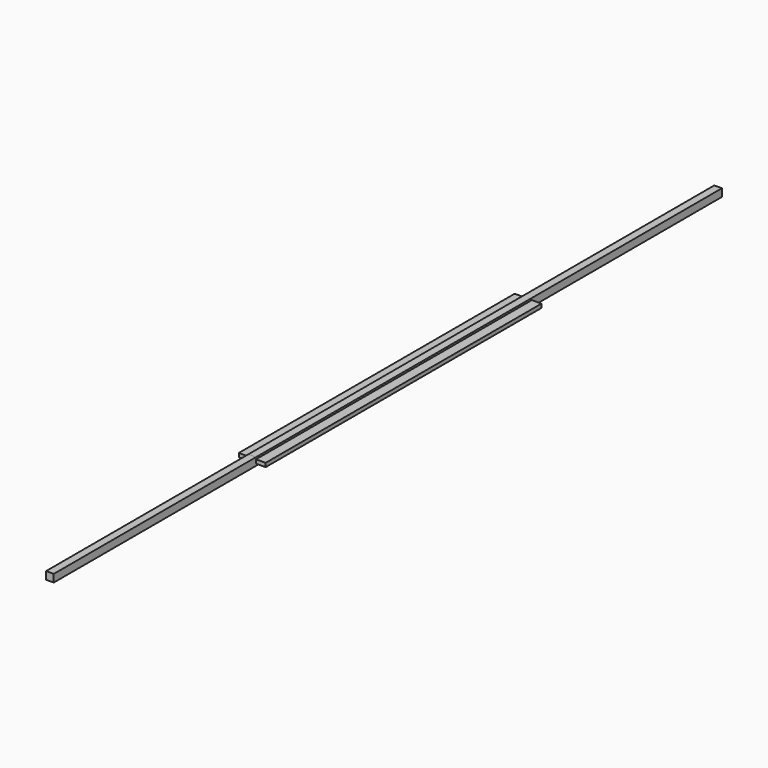
from build123d import *

# Parameters (mm, degrees)
F0_W     = 140
F0_H     = 20
F1_DEPTH = 1800
F2_W     = 40
F2_H     = 40
F3_DEPTH = 380
F4_DEPTH = 400
F6_DEPTH = 84
F7_DEPTH = 300
F8_DEPTH = 1320
F9_DEPTH = 3040


with BuildPart() as f1:
    # F0 (on Front) → F1 (new body)
    with BuildSketch(Plane.XZ):
        Rectangle(F0_W, F0_H)
    extrude(amount=-F1_DEPTH)


with BuildPart() as f3:
    # F2 (on Front) → F3 (new body)
    with BuildSketch(Plane.XZ):
        Rectangle(F2_W, F2_H)
    extrude(amount=-F3_DEPTH)


with BuildPart() as f4:
    # F2 (on Front) → F4 (new body)
    with BuildSketch(Plane.XZ):
        Rectangle(F2_W, F2_H)
    extrude(amount=F4_DEPTH)

    # F5 (on face) → F6 (cut)
    with BuildSketch(Plane.YZ.offset(20)):
        Polygon((0, -20), (0, 20), (-20, 0), align=None)
        Polygon((-380, 0), (-400, 20), (-400, -20), align=None)
    extrude(amount=-F6_DEPTH, mode=Mode.SUBTRACT)


with BuildPart() as f7:
    # F2 (on Front) → F7 (new body)
    with BuildSketch(Plane.XZ):
        Rectangle(F2_W, F2_H)
    extrude(amount=-F7_DEPTH)


with BuildPart() as f8:
    # F2 (on Front) → F8 (new body)
    with BuildSketch(Plane.XZ):
        Rectangle(F2_W, F2_H)
    extrude(amount=F8_DEPTH)


with BuildPart() as f9:
    # F2 (on Front) → F9 (new body)
    with BuildSketch(Plane.XZ):
        Rectangle(F2_W, F2_H)
    extrude(amount=-F9_DEPTH)


solid = Compound([f1.part, f3.part, f4.part, f7.part, f8.part, f9.part])
